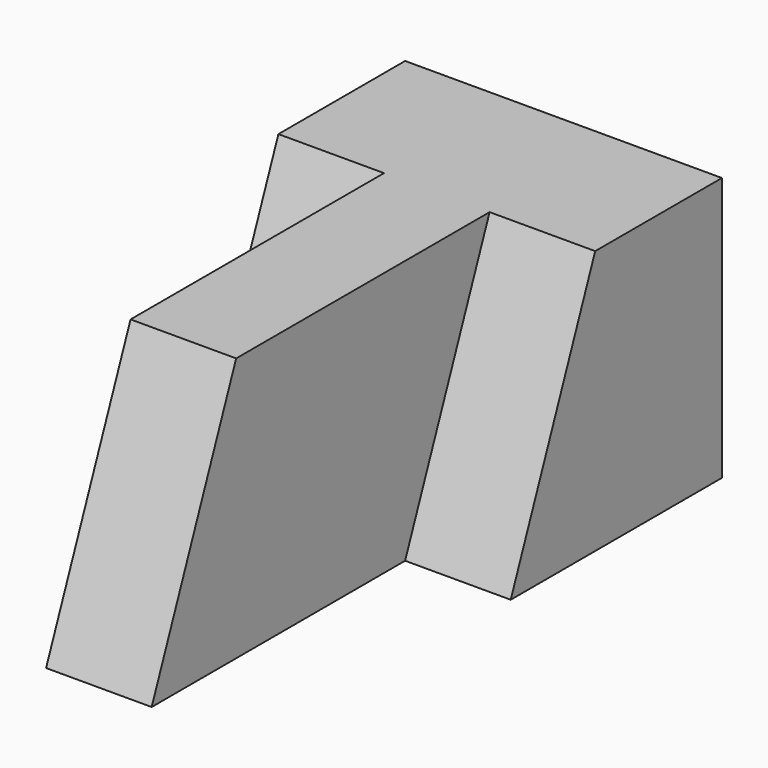
from build123d import *

# Parameters (mm, degrees)
F1_DEPTH = 31.75
F3_DEPTH = 12.7
F5_DEPTH = 12.7
F7_DEPTH = 12.7


with BuildPart() as f1:
    # F0 (on Top) → F1 (new body)
    with BuildSketch(Plane.XY):
        Polygon((22.314375, 47.947128), (-15.785625, 47.947128), (-15.785625, 16.197128), (-3.085625, 16.197128), (-3.085625, -21.902872), (9.614375, -21.902872), (9.614375, 16.197128), (22.314375, 16.197128), align=None)
    extrude(amount=F1_DEPTH)

    # F2 (on face) → F3 (cut)
    with BuildSketch(Plane.YZ.offset(9.614375)):
        Polygon((-21.902872, 0), (-9.202872, 31.75), (-21.902872, 31.75), align=None)
    extrude(amount=-F3_DEPTH, mode=Mode.SUBTRACT)

    # F4 (on face) → F5 (cut)
    with BuildSketch(Plane.YZ.offset(22.314375)):
        Polygon((16.197128, 0), (28.897128, 31.75), (16.197128, 31.75), align=None)
    extrude(amount=-F5_DEPTH, mode=Mode.SUBTRACT)

    # F6 (on face) → F7 (cut)
    with BuildSketch(Plane(origin=(-15.785625, 0, 0), x_dir=(0, -1, 0), z_dir=(-1, 0, 0))):
        Polygon((-16.197128, 31.75), (-28.897128, 31.75), (-16.197128, 0), align=None)
    extrude(amount=-F7_DEPTH, mode=Mode.SUBTRACT)


solid = f1.part
